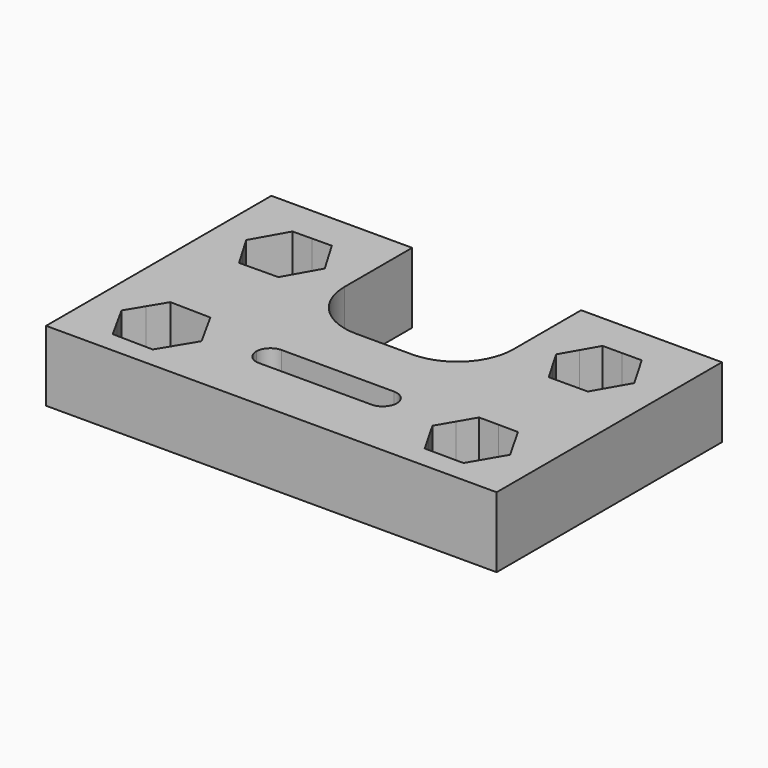
from build123d import *

# Parameters (mm, degrees)
F1_DEPTH = 25


with BuildPart() as f1:
    # F0 (on Top) → F1 (new body)
    with BuildSketch(Plane.XY):
        with BuildLine():
            Line((-110.8675387502, -22.3134379089), (-110.8675387502, -42.3134379089))
            Line((-110.8675387502, -42.3134379089), (-85.8675387502, -42.3134379089))
            Line((-85.8675387502, -42.3134379089), (-55.8675387502, -42.3134379089))
            Line((-55.8675387502, -42.3134379089), (24.1324612498, -42.3134379089))
            Line((24.1324612498, -42.3134379089), (49.1324612498, -42.3134379089))
            Line((49.1324612498, -42.3134379089), (49.1324612498, -22.3134379089))
            Line((49.1324612498, -22.3134379089), (49.1324612498, 32.6865620911))
            Line((49.1324612498, 32.6865620911), (49.1324612498, 57.6865620911))
            Line((49.1324612498, 57.6865620911), (-0.8675387502, 57.6865620911))
            Line((-0.8675387502, 57.6865620911), (-0.8675387502, 27.6865620911))
            ThreePointArc((-0.8675387502, 27.6865620911), (-6.7254031264, 13.5444264674), (-20.8675387502, 7.6865620911))
            Line((-20.8675387502, 7.6865620911), (-40.8675387502, 7.6865620911))
            ThreePointArc((-40.8675387502, 7.6865620911), (-55.0096743739, 13.5444264674), (-60.8675387502, 27.6865620911))
            Line((-60.8675387502, 27.6865620911), (-60.8675387502, 57.6865620911))
            Line((-60.8675387502, 57.6865620911), (-110.8675387502, 57.6865620911))
            Line((-110.8675387502, 57.6865620911), (-110.8675387502, 32.6865620911))
            Line((-110.8675387502, 32.6865620911), (-110.8675387502, -22.3134379089))
        make_face()
        Polygon((-78.4103846974, -9.9552751503), (-74.9234318112, -16.2738581795), (-71.4364788308, -22.5924413793), (-75.1650557554, -28.7715225899), (-78.8936328836, -34.9506041378), (-86.1091631049, -34.8111023976), (-93.3246928029, -34.6716006674), (-96.8116456892, -28.3530176383), (-100.2985986696, -22.0344344385), (-96.5700217449, -15.8553532279), (-92.8414446168, -9.67627168), (-85.6259146547, -9.8157734152), align=None, mode=Mode.SUBTRACT)
        with BuildLine():
            Line((-10.8675387502, -22.8934441009), (-50.7699366744, -22.8934441009))
            ThreePointArc((-50.7699366744, -22.8934441009), (-54.3394778344, -21.3946404546), (-55.7690024719, -17.7967944637))
            Line((-55.7690024719, -17.7967944637), (-55.7683250172, -17.761754076))
            ThreePointArc((-55.7683250172, -17.761754076), (-54.2704555733, -14.2888625532), (-50.7692592197, -12.8584037132))
            Line((-50.7692592197, -12.8584037132), (-10.8675387502, -12.8584037132))
            ThreePointArc((-10.8675387502, -12.8584037132), (-7.3320048442, -14.3228698073), (-5.8675387502, -17.8584037132))
            Line((-5.8675387502, -17.8584037132), (-5.8675387502, -17.8934441009))
            ThreePointArc((-5.8675387502, -17.8934441009), (-7.3320048442, -21.4289780069), (-10.8675387502, -22.8934441009))
        make_face(mode=Mode.SUBTRACT)
        Polygon((31.1242475463, -10.3503729009), (34.5564599522, -16.3686712143), (37.9886726021, -22.3869699554), (34.4927795487, -28.3685022972), (30.9968863057, -34.3500349634), (24.0687801262, -34.3132689375), (17.1406749534, -34.2765029169), (13.7084625474, -28.2582046034), (10.2762498976, -22.2399058623), (13.7721433077, -16.2583729102), (17.268036194, -10.2768408544), (24.1961422785, -10.3136068798), align=None, mode=Mode.SUBTRACT)
        Polygon((-99.7233911042, 32.5626446074), (-99.653317368, 32.6865620911), (-96.3130859887, 38.5933838159), (-92.9027806161, 44.624123479), (-85.9748542928, 44.6860822221), (-79.046928262, 44.7480409627), (-75.5293075699, 38.7792606775), (-72.0116863961, 32.8104795748), (-75.4219918066, 26.7797398448), (-78.8322968843, 20.7490007033), (-85.7602232076, 20.6870419601), (-92.6881492383, 20.6250832196), (-96.2057701339, 26.59386385), align=None, mode=Mode.SUBTRACT)
        Polygon((31.0253148422, 44.7069019097), (34.5070612984, 38.7171237426), (37.988807691, 32.7273456849), (34.5423806595, 26.7171753651), (31.0959540987, 20.7070058663), (24.1677804508, 20.6866140681), (17.2396076575, 20.6662222725), (13.7578613257, 26.6560002255), (10.2761148086, 32.6457784973), (13.722541611, 38.6559484174), (17.168968401, 44.6661183159), (24.0971414414, 44.6865101123), align=None, mode=Mode.SUBTRACT)
    extrude(amount=F1_DEPTH)


solid = f1.part
